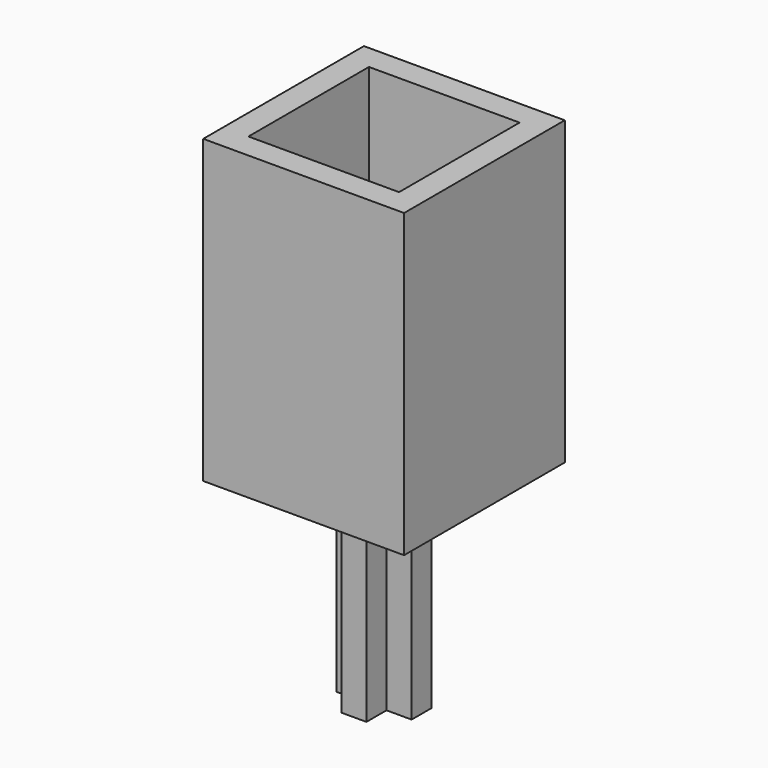
from build123d import *

# Parameters (mm, degrees)
F1_DEPTH = 10
F2_W     = 6
F2_H     = 6
F2_W_2   = 8
F2_H_2   = 8
F3_DEPTH = 2
F4_DEPTH = 10


with BuildPart() as f1:
    # F0 (on Top) → F1 (new body)
    with BuildSketch(Plane.XY):
        Polygon((-0.5, 0.5), (-1.5, 0.5), (-1.5, -0.5), (-0.5, -0.5), (-0.5, -1.5), (0.5, -1.5), (0.5, -0.5), (1.5, -0.5), (1.5, 0.5), (0.5, 0.5), (0.5, 1.5), (-0.5, 1.5), align=None)
    extrude(amount=F1_DEPTH)

    # F2 (on face) → F3 (join)
    with BuildSketch(Plane.XY.offset(10)):
        Rectangle(F2_W, F2_H)
        Polygon((-1.5, 0.5), (-0.5, 0.5), (-0.5, 1.5), (0.5, 1.5), (0.5, 0.5), (1.5, 0.5), (1.5, -0.5), (0.5, -0.5), (0.5, -1.5), (-0.5, -1.5), (-0.5, -0.5), (-1.5, -0.5), align=None, mode=Mode.SUBTRACT)
        Rectangle(F2_W_2, F2_H_2)
        Rectangle(F2_W, F2_H, mode=Mode.SUBTRACT)
        Rectangle(F2_W, F2_H)
        Polygon((-1.5, 0.5), (-0.5, 0.5), (-0.5, 1.5), (0.5, 1.5), (0.5, 0.5), (1.5, 0.5), (1.5, -0.5), (0.5, -0.5), (0.5, -1.5), (-0.5, -1.5), (-0.5, -0.5), (-1.5, -0.5), align=None, mode=Mode.SUBTRACT)
        Rectangle(F2_W, F2_H)
        Polygon((-1.5, 0.5), (-0.5, 0.5), (-0.5, 1.5), (0.5, 1.5), (0.5, 0.5), (1.5, 0.5), (1.5, -0.5), (0.5, -0.5), (0.5, -1.5), (-0.5, -1.5), (-0.5, -0.5), (-1.5, -0.5), align=None, mode=Mode.SUBTRACT)
        Rectangle(F2_W, F2_H)
        Polygon((-1.5, 0.5), (-0.5, 0.5), (-0.5, 1.5), (0.5, 1.5), (0.5, 0.5), (1.5, 0.5), (1.5, -0.5), (0.5, -0.5), (0.5, -1.5), (-0.5, -1.5), (-0.5, -0.5), (-1.5, -0.5), align=None, mode=Mode.SUBTRACT)
    extrude(amount=-F3_DEPTH)

    # F2 (on face) → F4 (join)
    with BuildSketch(Plane.XY.offset(10)):
        Rectangle(F2_W_2, F2_H_2)
        Rectangle(F2_W, F2_H, mode=Mode.SUBTRACT)
    extrude(amount=F4_DEPTH)


solid = f1.part
